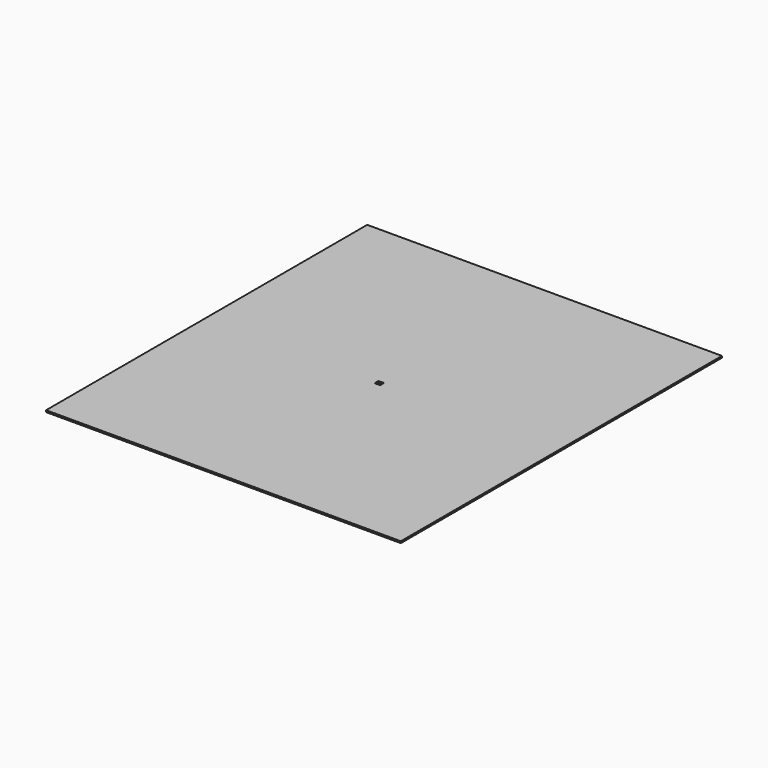
from build123d import *

# Parameters (mm, degrees)
F0_W     = 1930.4
F0_H     = 2184.4
F0_W_2   = 30.330142
F0_H_2   = 26.228558
F1_DEPTH = 9.525


with BuildPart() as f1:
    # F0 (on Top) → F1 (new body)
    with BuildSketch(Plane.XY):
        with Locations((15.165071, 13.114279)):
            Rectangle(F0_W, F0_H)
        Rectangle(F0_W_2, F0_H_2, mode=Mode.SUBTRACT)
    extrude(amount=F1_DEPTH)


solid = f1.part
